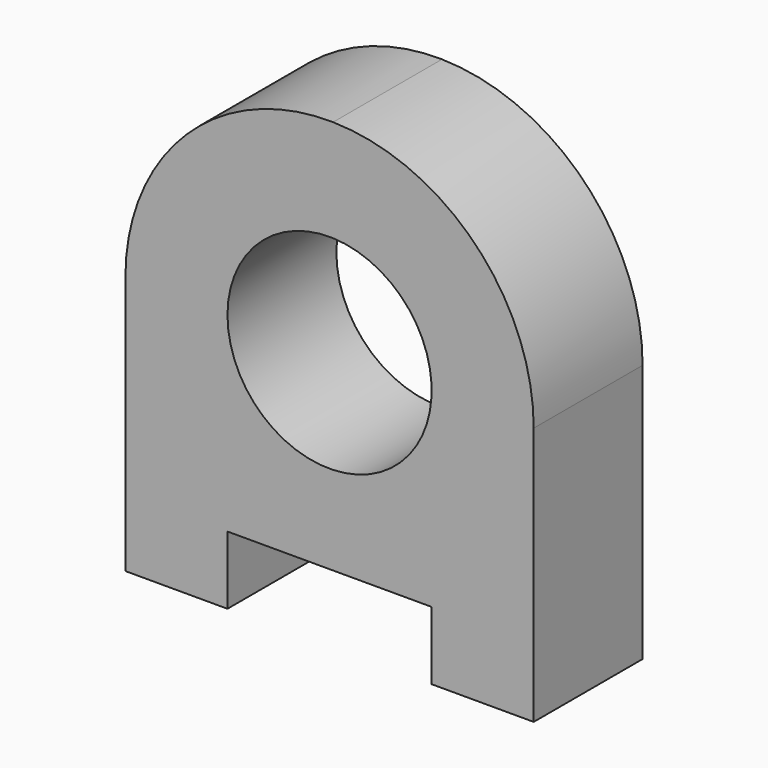
from build123d import *

# Parameters (mm, degrees)
F0_W     = 38.1
F0_H     = 25.4
F1_DEPTH = 50.8
F2_D     = 76.2


with BuildPart() as f1:
    # F0 (on Front) → F1 (new body)
    with BuildSketch(Plane.XZ):
        with BuildLine():
            ThreePointArc((0, 103.7758213215), (-54.7329493961, 81.9335598316), (-77.5202206336, 27.5872590731))
            Line((-77.5202206336, 27.5872590731), (-1.3202206336, 27.5872590731))
            Line((-1.3202206336, 27.5872590731), (0, 103.7758213215))
        make_face()
        Polygon((-1.3202206336, 27.5872590731), (-77.5202206336, 27.5872590731), (-77.5202206336, -43.5327409269), (-39.4202206336, -43.5327409269), (36.7797793664, -43.5327409269), (74.8797793664, -43.5327409269), (74.8797793664, 27.5872590731), align=None)
        with BuildLine():
            Line((0, 103.7758213215), (-1.3202206336, 27.5872590731))
            Line((-1.3202206336, 27.5872590731), (74.8797793664, 27.5872590731))
            ThreePointArc((74.8797793664, 27.5872590731), (53.026080125, 80.9999878356), (0, 103.7758213215))
        make_face()
        with Locations((-58.4702206336, -56.2327409269)):
            Rectangle(F0_W, F0_H)
        with Locations((55.8297793664, -56.2327409269)):
            Rectangle(F0_W, F0_H)
    extrude(amount=F1_DEPTH)

    # F2 (through all)
    with Locations(Plane(origin=(0, 0, 0), x_dir=(1, 0, 0), z_dir=(0, 1, 0))):
        with Locations((-1.3202206336, -27.5872590731)):
            Hole(F2_D / 2)


solid = f1.part
